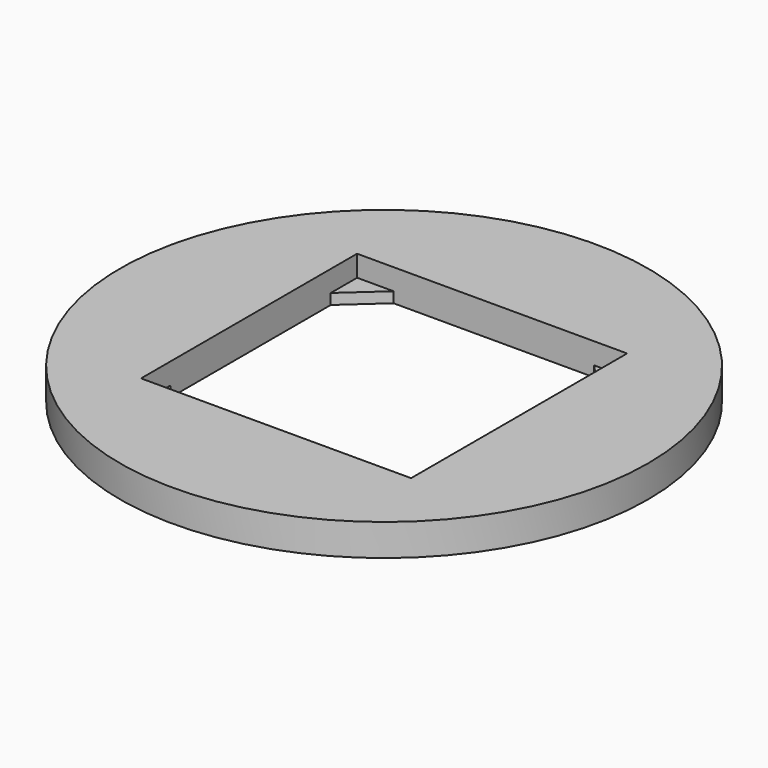
from build123d import *

# Parameters (mm, degrees)
F0_R     = 24.925
F0_W     = 25.5
F0_H     = 25.5
F1_DEPTH = 3
F3_DEPTH = 1


with BuildPart() as f1:
    # F0 (on Top) → F1 (new body)
    with BuildSketch(Plane.XY):
        Circle(F0_R)
        Rectangle(F0_W, F0_H, mode=Mode.SUBTRACT)
    extrude(amount=F1_DEPTH)

    # F2 (on Top) → F3 (join)
    with BuildSketch(Plane.XY):
        Polygon((-8.357989, -14.169117), (-13.916554, -8.014991), (-14.611375, -14.566157), align=None)
        Polygon((14.169117, -8.357989), (8.014991, -13.916554), (14.566157, -14.611375), align=None)
        Polygon((8.357989, 14.169117), (13.916554, 8.014991), (14.611375, 14.566157), align=None)
        Polygon((-14.169117, 8.357989), (-8.014991, 13.916554), (-14.566157, 14.611375), align=None)
    extrude(amount=F3_DEPTH)


solid = f1.part
